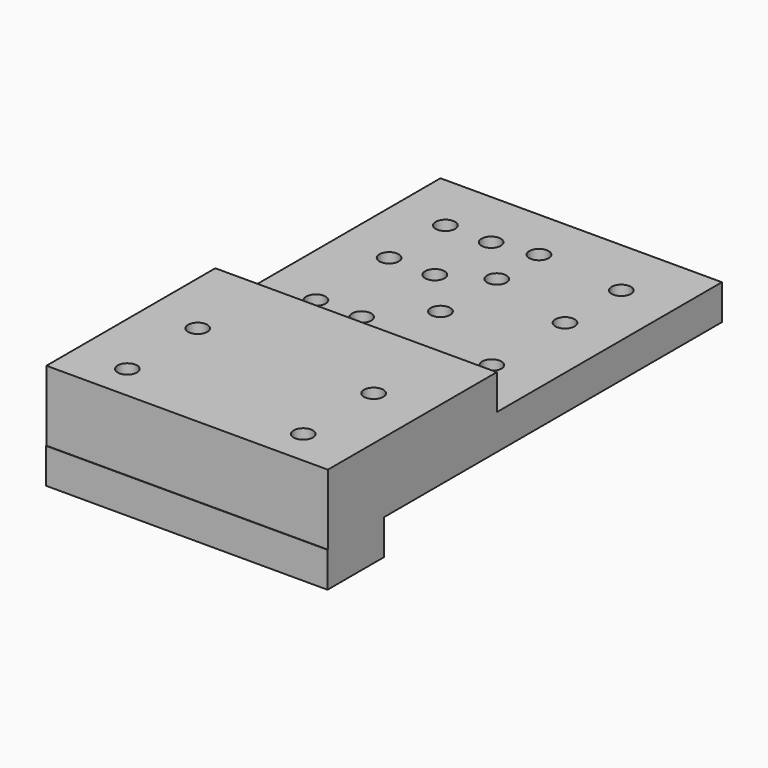
from build123d import *

# Parameters (mm, degrees)
F0_W     = 80
F0_H     = 140
F1_DEPTH = 10
F2_D     = 5.5
F3_D     = 5.5
F4_W     = 80
F4_H     = 20
F5_DEPTH = 10
F6_W     = 80
F6_H     = 60
F7_DEPTH = 10
F9_D     = 5.5


with BuildPart() as f1:
    # F0 (on Top) → F1 (new body)
    with BuildSketch(Plane.XY):
        Rectangle(F0_W, F0_H)
    extrude(amount=F1_DEPTH)

    # F2 (through all)
    with Locations(Plane(origin=(0, 0, 0), x_dir=(1, 0, 0), z_dir=(0, 0, -1))):
        with Locations((25, -7), (25, 13), (25, -33), (25, -53), (-12, -53), (-12, -33), (-25, -33), (-25, -53), (-12, -7), (-25, -7), (-12, 13), (-25, 13)):
            Hole(F2_D / 2)

    # F3 (through all)
    with Locations(Plane(origin=(0, 0, 0), x_dir=(1, 0, 0), z_dir=(0, 0, -1))):
        with Locations((0, -40), (0, -55), (0, 35), (0, -20)):
            Hole(F3_D / 2)

    # F4 (on face) → F5 (join)
    with BuildSketch(Plane.XY):
        with Locations((0, -60.125451535)):
            Rectangle(F4_W, F4_H)
    extrude(amount=-F5_DEPTH)

    # F6 (on face) → F7 (join)
    with BuildSketch(Plane.XY.offset(10)):
        with Locations((0, -40)):
            Rectangle(F6_W, F6_H)
    extrude(amount=F7_DEPTH)

    # F9 (through all)
    with Locations(Plane.XY.offset(20)):
        with Locations((-25, -35), (25, -35), (-25, -60), (25, -60)):
            Hole(F9_D / 2)


solid = f1.part
